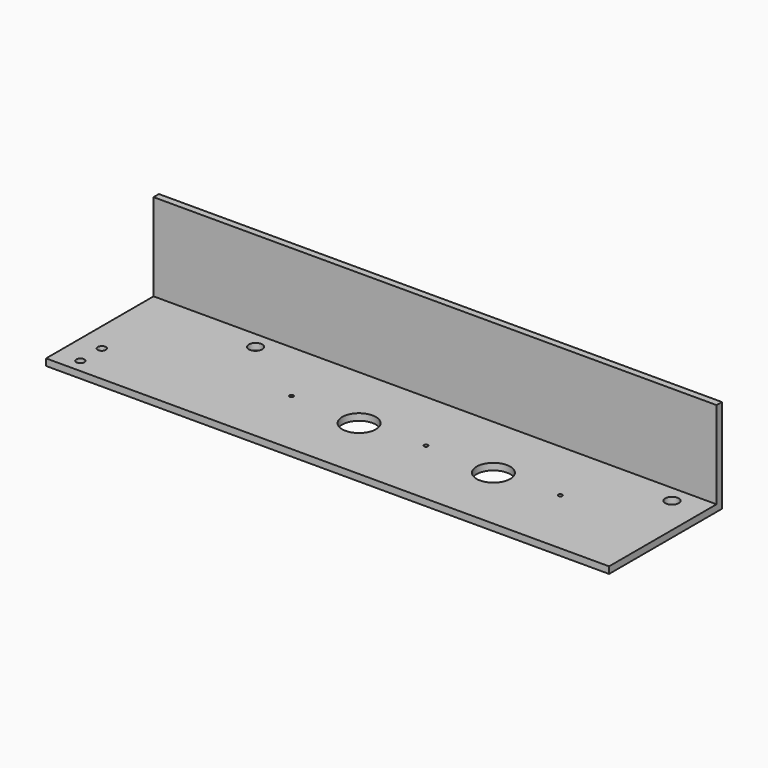
from build123d import *

# Parameters (mm, degrees)
F0_W      = 356
F0_H      = 100
F1_DEPTH  = 5
F2_R      = 5
F2_R_2    = 12.5
F3_DEPTH  = 5.001
F4_R      = 1.5
F5_DEPTH  = 5.001
F6_W      = 49.406879
F6_H      = 21.095738
F7_DEPTH  = 25
F9_W      = 63.062
F9_H      = 100
F10_DEPTH = 5
F11_R     = 3
F12_DEPTH = 25
F13_W     = 419.062
F13_H     = 5
F14_DEPTH = 70


with BuildPart() as f1:
    # F0 (on Top) → F1 (new body)
    with BuildSketch(Plane.XY):
        Rectangle(F0_W, F0_H)
    extrude(amount=F1_DEPTH)

    # F2 (on face) → F3 (cut, through all)
    with BuildSketch(Plane.XY.offset(5)):
        with Locations((-155, 37.335402)):
            Circle(F2_R)
        with Locations((155, 37.335402)):
            Circle(F2_R)
        with Locations((-48.086096, 0)):
            Circle(F2_R_2)
        with Locations((51.913904, 0)):
            Circle(F2_R_2)
    extrude(amount=-F3_DEPTH, mode=Mode.SUBTRACT)

    # F4 (on face) → F5 (cut, through all)
    with BuildSketch(Plane.XY.offset(5)):
        with Locations((0, 2.148001)):
            Circle(F4_R)
        with Locations((100, 2.148001)):
            Circle(F4_R)
        with Locations((-100, 2.148001)):
            Circle(F4_R)
    extrude(amount=-F5_DEPTH, mode=Mode.SUBTRACT)

    # F9 (on Top) → F10 (join, through all)
    with BuildSketch(Plane.XY):
        with Locations((-209.531, 0)):
            Rectangle(F9_W, F9_H)
    extrude(amount=F10_DEPTH)

    # F11 (on face) → F12 (cut)
    with BuildSketch(Plane.XY.offset(5)):
        with Locations((-223.56236, -20)):
            Circle(F11_R)
        with Locations((-223.56236, -40)):
            Circle(F11_R)
    extrude(amount=-F12_DEPTH, mode=Mode.SUBTRACT)

    # F13 (on face) → F14 (join)
    with BuildSketch(Plane(origin=(0, 0, 0), x_dir=(1, 0, 0), z_dir=(0, 0, -1))):
        with Locations((-31.531, -52.5)):
            Rectangle(F13_W, F13_H)
    extrude(amount=-F14_DEPTH)


with BuildPart() as f7:
    # F6 (on Top) → F7 (new body)
    with BuildSketch(Plane.XY):
        with Locations((37.024449, 48.380569)):
            Rectangle(F6_W, F6_H)
    extrude(amount=F7_DEPTH)


solid = f1.part
